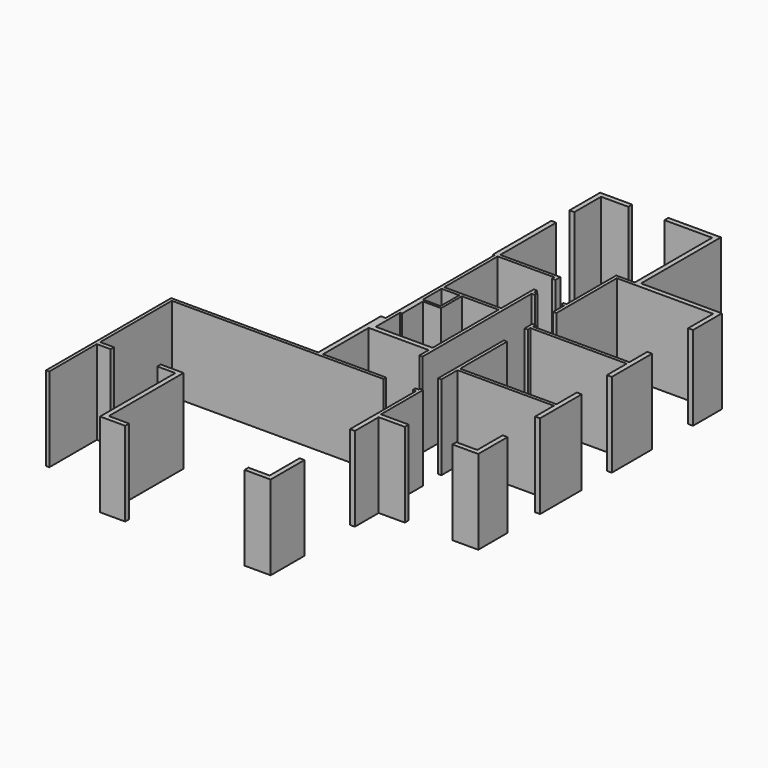
from build123d import *

# Parameters (mm, degrees)
F1_DEPTH = 26
F0_W     = 5.439778775
F0_H     = 7.2139397055


with BuildPart() as f1:
    # F0 (on Top) → F1 (new body)
    with BuildSketch(Plane.XY):
        Polygon((-30, 28.5364296287), (-28.5, 28.5364296287), (-28.5, 38.837035358), (-20.1161447912, 38.837035358), (-20.1161447912, 40.337035358), (-30, 40.337035358), align=None)
    extrude(amount=F1_DEPTH)


with BuildPart() as f1b:
    # F0 (on Top) → F1, piece 2 (new body)
    with BuildSketch(Plane.XY):
        Polygon((-8.9654363692, 40.337035358), (-8.9654363692, 38.837035358), (0, 38.837035358), (5.75, 38.837035358), (5.75, 9.537035358), (7.25, 9.537035358), (7.25, 40.337035358), (0, 40.337035358), align=None)
        Polygon((32.2, 9.537035358), (7.25, 9.537035358), (7.25, 8.037035358), (30.7, 8.037035358), (30.7, -1.5970306704), (32.2, -1.5970306704), align=None)
        Polygon((0, -10.0858646248), (-0.9687261283, -10.0858646248), (-0.9687261283, -10.5858646248), (-0.9687261283, -11.0858646248), (0, -11.0858646248), (0, -15.262964642), (1, -15.262964642), (1, 8.037035358), (7.25, 8.037035358), (7.25, 9.537035358), (5.75, 9.537035358), (5.75, 9.037035358), (0, 9.037035358), (0, 0), align=None)
    extrude(amount=F1_DEPTH)


with BuildPart() as f1c:
    # F0 (on Top) → F1, piece 3 (new body)
    with BuildSketch(Plane.XY):
        Polygon((-9.9687261283, -1.939239528), (-9.9687261283, 0), (-28.5, 0), (-28.5, 21.5364296287), (-29.25, 21.5364296287), (-30, 21.5364296287), (-30, 21.337035358), (-30, 0), (-30, -1), (-29.5, -1), (-29.5, -20.0283872778), (-29.5, -42.9299995303), (-30.9687261283, -42.9299995303), (-30.9687261283, -67.0858646248), (-29.4687261283, -67.0858646248), (-29.4687261283, -53.1069921017), (-29.4687261283, -49.5069921017), (-10.9687261283, -49.5069921017), (-10.9687261283, -53.1069921017), (-9.9687261283, -53.1069921017), (-9.9687261283, -11.0858646248), (-8.9687261283, -11.0858646248), (-8.9687261283, -10.0858646248), (-9.9687261283, -10.0858646248), (-9.9687261283, -8.939239528), (-10.9687261283, -8.939239528), (-10.9687261283, -21.6), (-28.1687261283, -21.6), (-28.5, -21.6), (-28.5, -1), (-28.1687261283, -1), (-10.9687261283, -1), (-10.9687261283, -1.939239528), (-10.4687261283, -1.939239528), align=None)
        with Locations((-25.7801106125, -26.2069698527)):
            Rectangle(F0_W, F0_H, mode=Mode.SUBTRACT)
        Polygon((-22.2687261283, -30.6), (-22.2687261283, -22.6), (-10.9687261283, -22.6), (-10.9687261283, -30.6), (-10.9687261283, -38.6), (-10.9687261283, -48), (-28.1687261283, -48), (-28.5, -48), (-28.5, -38.6), (-27.8687261283, -38.6), (-27.8687261283, -30.6), align=None, mode=Mode.SUBTRACT)
        Polygon((-10.9687261283, -67.0858646248), (-29.4687261283, -67.0858646248), (-30.9687261283, -67.0858646248), (-76.3, -67.0858646248), (-76.3, -115.2858646248), (-75.3, -115.2858646248), (-75.3, -96.9952866435), (-70.9983035922, -96.9952866435), (-70.9983035922, -95.6858646248), (-75.3, -95.6858646248), (-75.3, -68.0858646248), (-51.1, -68.0858646248), (-49.6, -68.0858646248), (-10.9687261283, -68.0858646248), (-10, -68.0858646248), (-10, -67.0858646248), align=None)
    extrude(amount=F1_DEPTH)


with BuildPart() as f1d:
    # F0 (on Top) → F1, piece 4 (new body)
    with BuildSketch(Plane.XY):
        Polygon((30.7, -52.362964642), (1, -52.362964642), (1, -53.362964642), (30.7, -53.362964642), (30.7, -60.5419501662), (32.2, -60.5419501662), (32.2, -44.5117205381), (30.7, -44.5117205381), align=None)
        Polygon((1, -34.262964642), (0, -34.262964642), (0, -59.5858646248), (1, -59.5858646248), (1, -53.362964642), (1, -52.362964642), align=None)
    extrude(amount=F1_DEPTH)


with BuildPart() as f1e:
    # F0 (on Top) → F1, piece 5 (new body)
    with BuildSketch(Plane.XY):
        Polygon((30.7, -82.862964642), (24.2280215025, -82.862964642), (24.2280215025, -84.362964642), (32.2, -84.362964642), (32.2, -73.0849951506), (30.7, -73.0849951506), align=None)
    extrude(amount=F1_DEPTH)


with BuildPart() as f1f:
    # F0 (on Top) → F1, piece 6 (new body)
    with BuildSketch(Plane.XY):
        Polygon((1, -66.5858646248), (0, -66.5858646248), (0, -67.0858646248), (-1, -67.0858646248), (-1, -67.5858646248), (-1, -68.0858646248), (0, -68.0858646248), (0, -93.5541018844), (1.5, -93.5541018844), (1.5, -84.362964642), (9.5475884154, -84.362964642), (9.5475884154, -82.862964642), (1, -82.862964642), align=None)
    extrude(amount=F1_DEPTH)


with BuildPart() as f1g:
    # F0 (on Top) → F1, piece 7 (new body)
    with BuildSketch(Plane.XY):
        Polygon((1.5, -112.9701584578), (0, -112.9701584578), (0, -124.4858646248), (-6.5535241738, -124.4858646248), (-6.5535241738, -125.9858646248), (1.5, -125.9858646248), align=None)
    extrude(amount=F1_DEPTH)


with BuildPart() as f1h:
    # F0 (on Top) → F1, piece 8 (new body)
    with BuildSketch(Plane.XY):
        Polygon((-51.1, -96.9952866435), (-51.1, -115.2858646248), (-51.1, -125.9858646248), (-43.3335267007, -125.9858646248), (-43.3335267007, -124.4858646248), (-49.6, -124.4858646248), (-49.6, -95.6858646248), (-51.1, -95.6858646248), (-56.6463023424, -95.6858646248), (-56.6463023424, -96.9952866435), align=None)
    extrude(amount=F1_DEPTH)


with BuildPart() as f1i:
    # F0 (on Top) → F1, piece 9 (new body)
    with BuildSketch(Plane.XY):
        Polygon((0.5, -23.262964642), (0, -23.262964642), (0, -26.262964642), (0.5, -26.262964642), (1, -26.262964642), (1, -25.262964642), (5.75, -25.262964642), (30.7, -25.262964642), (30.7, -32.9032726586), (32.2, -32.9032726586), (32.2, -25.262964642), (32.2, -17.3665154725), (30.7, -17.3665154725), (30.7, -24.262964642), (1, -24.262964642), (1, -23.262964642), align=None)
    extrude(amount=F1_DEPTH)


solid = Compound([f1.part, f1b.part, f1c.part, f1d.part, f1e.part, f1f.part, f1g.part, f1h.part, f1i.part])
